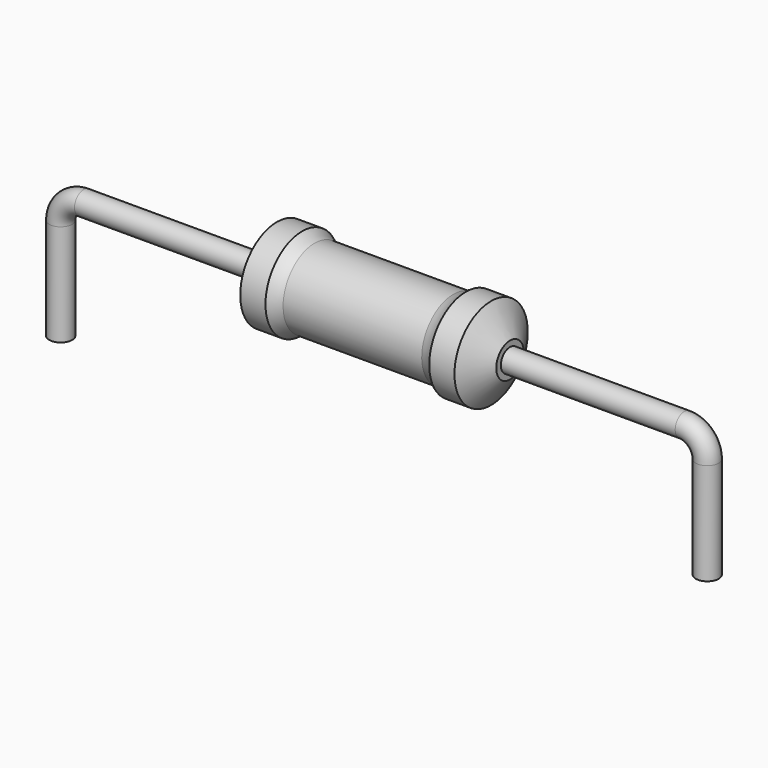
from build123d import *

# Parameters (mm, degrees)
SKETCH_R = 0.45


with BuildPart() as revolution:
    # Sketch002 → Revolution (revolve)
    with BuildSketch(Plane.XZ):
        with BuildLine():
            Line((8.4925, 3.7), (9.4825, 3.7))
            ThreePointArc((9.4825, 3.7), (9.719758, 3.555766), (9.9775, 3.4525))
            Line((9.9775, 3.4525), (15.4225, 3.4525))
            ThreePointArc((15.4225, 3.4525), (15.680242, 3.555766), (15.9175, 3.7))
            Line((15.9175, 3.7), (16.9075, 3.7))
            ThreePointArc((17.65, 2.575), (17.279877, 3.138244), (16.9075, 3.7))
            Line((17.65, 1.9), (17.65, 2.575))
            Line((7.75, 1.9), (17.65, 1.9))
            Line((7.75, 1.9), (7.75, 2.575))
            ThreePointArc((8.4925, 3.7), (8.120123, 3.138244), (7.75, 2.575))
        make_face()
    revolve(axis=Axis((7.75, 0, 1.9), (1, 0, 0)))


with BuildPart() as sweep_body:
    # Sweep: sweep along a path in Sketch001
    with BuildLine(Plane.XZ) as sweep_path:
        Line((0, -3), (0, 1))
        ThreePointArc((0, 1), (0.263601, 1.636393), (0.899992, 1.9))
        Line((0.899992, 1.9), (24.5, 1.9))
        ThreePointArc((24.5, 1.9), (25.136396, 1.636396), (25.4, 1))
        Line((25.4, 1), (25.4, -3))
    # Sketch → Sweep (sweep)
    with BuildSketch(Plane.XY.offset(-2)):
        Circle(SKETCH_R)
    sweep(path=sweep_path.line)


solid = Compound([revolution.part, sweep_body.part])
